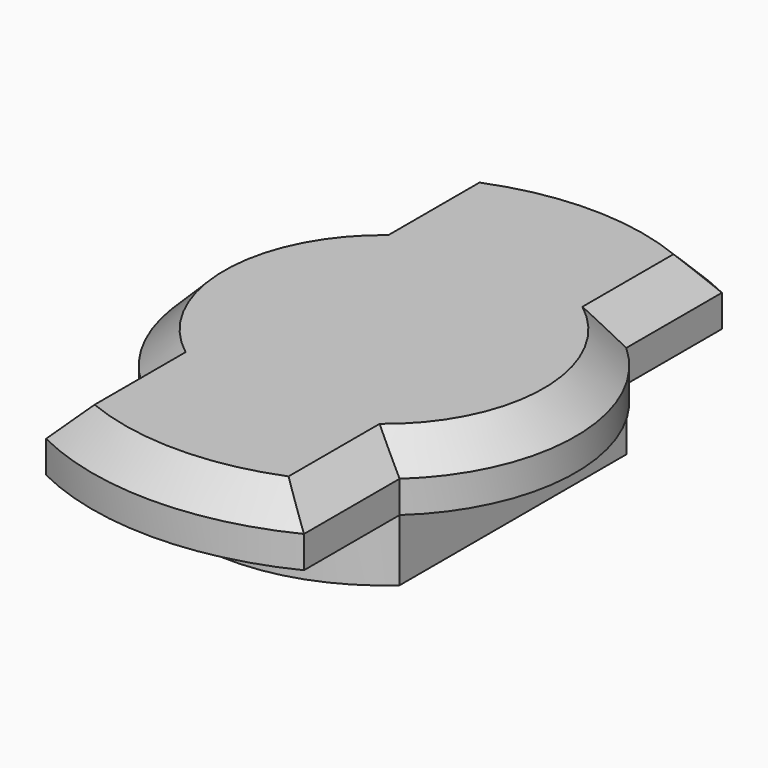
from build123d import *

# Parameters (mm, degrees)
PAD007_DEPTH = 1.6
CHAMFER_SIZE = 0.8
PAD008_DEPTH = 1.55


with BuildPart() as part:
    # Sketch011 → Pad007 (new body)
    with BuildSketch(Plane.XY):
        with BuildLine():
            Line((-3.230712, 3.55), (-3.230712, 6.546182))
            ThreePointArc((3.230712, 6.546182), (0, 7.3), (-3.230712, 6.546182))
            Line((3.230712, 3.55), (3.230712, 6.546182))
            ThreePointArc((3.230712, -3.55), (4.8, 0), (3.230712, 3.55))
            Line((3.230712, -3.55), (3.230712, -6.546182))
            ThreePointArc((-3.230712, -6.546182), (0, -7.3), (3.230712, -6.546182))
            Line((-3.230712, -3.55), (-3.230712, -6.546182))
            ThreePointArc((-3.230712, 3.55), (-4.8, 0), (-3.230712, -3.55))
        make_face()
    extrude(amount=PAD007_DEPTH)

    # Chamfer
    chamfer_edges = [part.edges().sort_by_distance(p)[0] for p in [
        (-4.8, 0, 1.6),
        (-3.230712, -5.048091, 1.6),
        (0, -7.3, 1.6),
        (3.230712, -5.048091, 1.6),
        (4.8, 0, 1.6),
        (3.230712, 5.048091, 1.6),
        (0, 7.3, 1.6),
        (-3.230712, 5.048091, 1.6),
    ]]
    chamfer(chamfer_edges, length=CHAMFER_SIZE)

    # Sketch013 (on Face4 of Chamfer) → Pad008 (join)
    with BuildSketch(Plane(origin=(0, 0, 0), x_dir=(1, 0, 0), z_dir=(0, 0, -1))):
        with BuildLine():
            Line((-3.230712, 3.55), (-3.230712, -3.55))
            ThreePointArc((-3.230712, -3.55), (0, -4.8), (3.230712, -3.55))
            Line((3.230712, 3.55), (3.230712, -3.55))
            ThreePointArc((3.230712, 3.55), (0, 4.8), (-3.230712, 3.55))
        make_face()
    extrude(amount=PAD008_DEPTH)


with BuildPart() as part_1:
    # Body002 placement: moved
    add(part.part.moved(Location((0, 0, 0.8))))


solid = part_1.part
